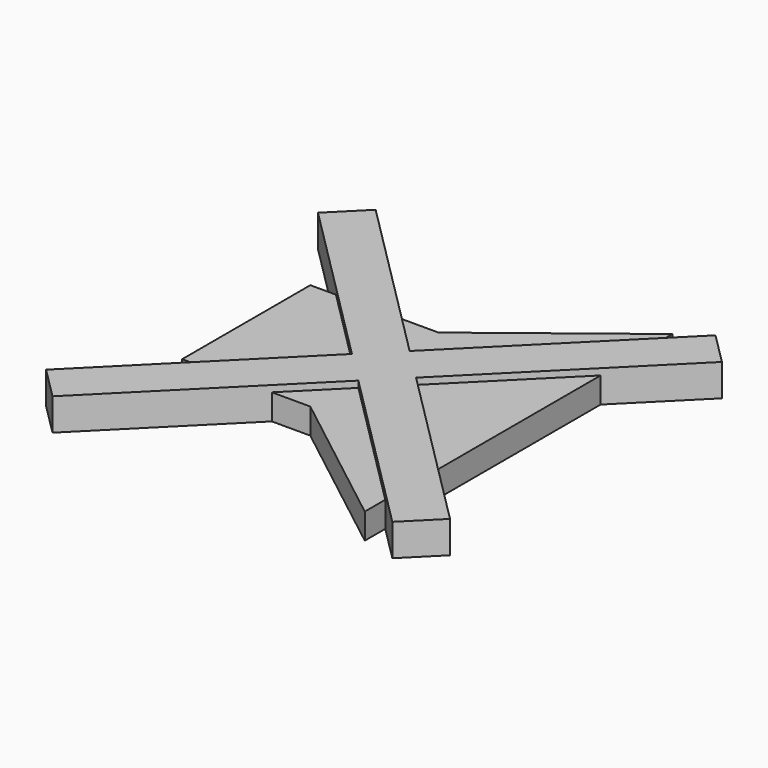
from build123d import *

# Parameters (mm, degrees)
PAD007_DEPTH = 0.8
PAD006_DEPTH = 1


with BuildPart() as obj1:
    # Sketch013 → Pad007 (new body)
    with BuildSketch(Plane.XY):
        Polygon((-14.5, 2.5), (-14.5, -2.5), (-10.5, -2.5), (-6, -6), (-6, 6), (-10.5, 2.5), align=None)
    extrude(amount=PAD007_DEPTH)


with BuildPart() as obj1_1:
    # Body008 placement: moved
    add(obj1.part.moved(Location((10.2, 0, 2))))


with BuildPart() as obj2:
    # Sketch014 → Pad006 (new body)
    with BuildSketch(Plane.XY):
        Polygon((-5.303301, 6.303301), (0, 1), (5.303301, 6.303301), (6.303301, 5.303301), (1, 0), (6.303301, -5.303301), (5.303301, -6.303301), (0, -1), (-5.303301, -6.303301), (-6.303301, -5.303301), (-1, 0), (-6.303301, 5.303301), align=None)
    extrude(amount=PAD006_DEPTH)


with BuildPart() as obj2_1:
    # Body009 placement: moved
    add(obj2.part.moved(Location((0, 0, 2))))

    # Fusion003: union obj1
    add(obj1_1.part)


solid = obj2_1.part
